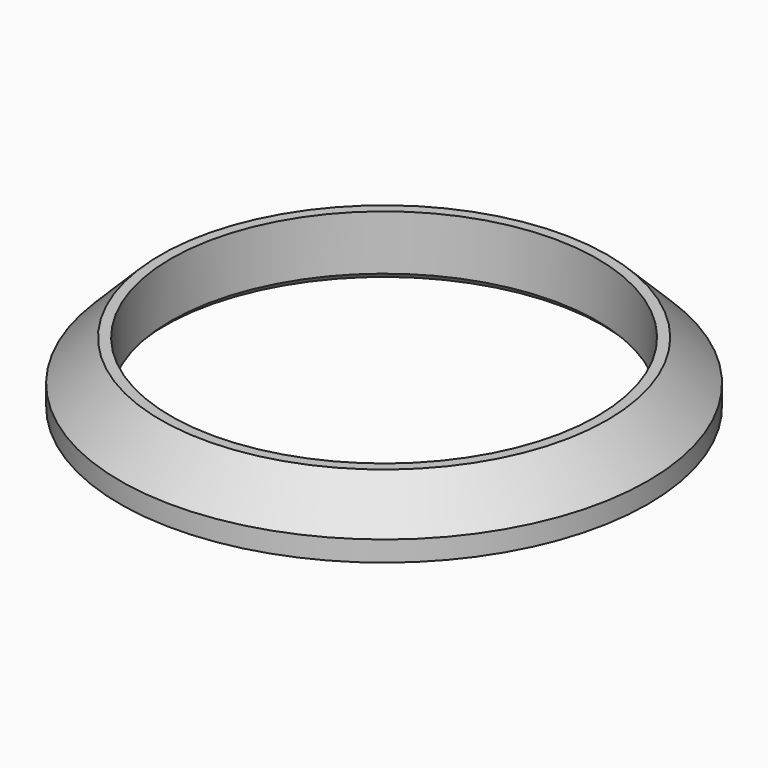
from build123d import *

# Parameters (mm, degrees)
SKETCH052_R     = 26
SKETCH052_R_2   = 21
PAD034_DEPTH    = 6
CHAMFER016_SIZE = 3.99
CHAMFER017_SIZE = 0.6


with BuildPart() as part:
    # Sketch052 (on XY_Plane016 of Origin031) → Pad034 (new body)
    with BuildSketch(Plane.XY):
        Circle(SKETCH052_R)
        Circle(SKETCH052_R_2, mode=Mode.SUBTRACT)
    extrude(amount=PAD034_DEPTH)

    # Chamfer016
    chamfer016_edges = [part.edges().sort_by_distance(p)[0] for p in [
        (-26, 0, 6),
    ]]
    chamfer(chamfer016_edges, length=CHAMFER016_SIZE)

    # Chamfer017
    chamfer017_edges = [part.edges().sort_by_distance(p)[0] for p in [
        (-21, 0, 0),
    ]]
    chamfer(chamfer017_edges, length=CHAMFER017_SIZE)


solid = part.part
